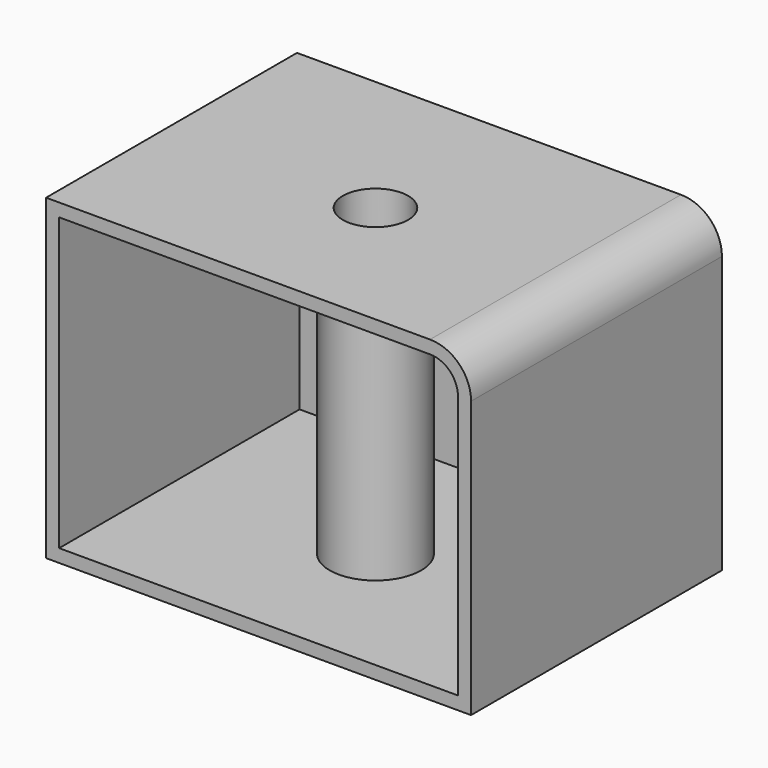
from build123d import *

# Parameters (mm, degrees)
F0_W     = 82.651131
F0_H     = 60.990963
F1_DEPTH = 61.722
F2_R     = 7.971733
F4_D     = 12.7
F5_T     = -2.54


with BuildPart() as f1:
    # F0 (on Top) → F1 (new body)
    with BuildSketch(Plane.XY):
        with Locations((41.325565, -30.495482)):
            Rectangle(F0_W, F0_H)
        with Locations((41.325565, -30.495482)):
            Rectangle(F0_W, F0_H)
    extrude(amount=F1_DEPTH)

    # F2
    f2_edges = [f1.edges().sort_by_distance(p)[0] for p in [
        (82.651131, -30.495482, 61.722),
    ]]
    fillet(f2_edges, radius=F2_R)

    # F4 (through all)
    with Locations(Plane.XY.offset(61.722)):
        with Locations((41.159108, -32.359846)):
            Hole(F4_D / 2)

    # F5
    f5_openings = [f1.faces().sort_by_distance(p)[0] for p in [
        (41.219566, -60.990963, 30.783051),
    ]]
    offset(amount=F5_T, openings=f5_openings)


solid = f1.part
